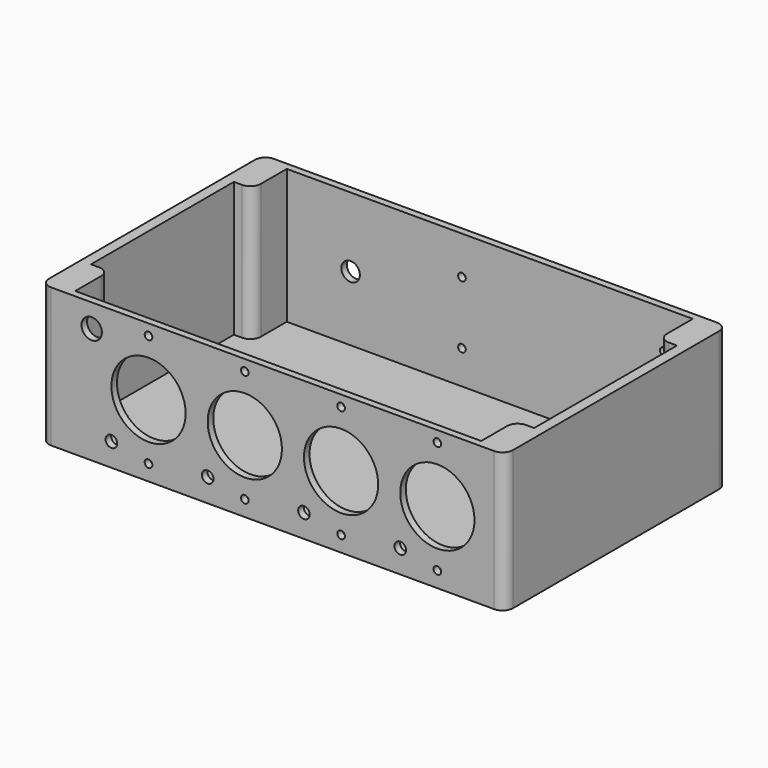
from build123d import *

# Parameters (mm, degrees)
SKETCH012_W     = 200
SKETCH012_H     = 120
PAD001_DEPTH    = 60
SKETCH011_R     = 16
POCKET004_DEPTH = 5
POCKET003_DEPTH = 58
SKETCH009_R     = 1.65
HOLE005_DEPTH   = 4
SKETCH010_R     = 4
POCKET005_DEPTH = 3
SKETCH015_R     = 4.4
HOLE006_DEPTH   = 22.356213
HOLE006_TIPS_R  = 4.4
SKETCH014_R     = 2.5
HOLE007_DEPTH   = 25
FILLET002_R     = 4.5
FILLET003_R     = 4.5
SKETCH016_R     = 1.65
HOLE004_DEPTH   = 9.00858
HOLE004_TIPS_R  = 1.65


with BuildPart() as part:
    # Sketch012 → Pad001 (new body)
    with BuildSketch(Plane.XY):
        Rectangle(SKETCH012_W, SKETCH012_H)
    extrude(amount=PAD001_DEPTH)

    # Sketch011 (on Face3 of Pad001) → Pocket004 (cut)
    with BuildSketch(Plane.XZ.offset(60)):
        with Locations((-53.5, 31)):
            Circle(SKETCH011_R)
        with Locations((-12, 31)):
            Circle(SKETCH011_R)
        with Locations((29.5, 31)):
            Circle(SKETCH011_R)
        with Locations((71, 31)):
            Circle(SKETCH011_R)
    extrude(amount=-POCKET004_DEPTH, mode=Mode.SUBTRACT)

    # Sketch013 (on Face6 of Pad001) → Pocket003 (cut)
    with BuildSketch(Plane.XY.offset(60)):
        Polygon((-87.5, 57), (87.5, 57), (87.5, 38.5), (95.5, 38.5), (95.5, -38.5), (87.5, -38.5), (87.5, -57), (-87.5, -57), (-87.5, -38.5), (-95.5, -38.5), (-95.5, 38.5), (-87.5, 38.5), align=None)
    extrude(amount=-POCKET003_DEPTH, mode=Mode.SUBTRACT)

    # Sketch009 (on Face1 of Pocket003) → Hole005 (cut)
    with BuildSketch(Plane(origin=(0, 60, 0), x_dir=(-1, 0, 0), z_dir=(0, 1, 0))):
        with Locations((-75, 43.5)):
            Circle(SKETCH009_R)
        with Locations((12, 43.5)):
            Circle(SKETCH009_R)
        with Locations((12, 16.5)):
            Circle(SKETCH009_R)
        with Locations((-75, 16.5)):
            Circle(SKETCH009_R)
    extrude(amount=-HOLE005_DEPTH, mode=Mode.SUBTRACT)

    # Sketch010 (on Face1 of Hole005) → Pocket005 (cut)
    with BuildSketch(Plane(origin=(0, 60, 0), x_dir=(-1, 0, 0), z_dir=(0, 1, 0))):
        with Locations((60, 30)):
            Circle(SKETCH010_R)
    extrude(amount=-POCKET005_DEPTH, mode=Mode.SUBTRACT)

    # Sketch015 (on Face11 of Pocket005) → Hole006 (cut)
    with BuildSketch(Plane.XZ.offset(60)):
        with Locations((-78, 50)):
            Circle(SKETCH015_R)
    extrude(amount=-HOLE006_DEPTH, mode=Mode.SUBTRACT)

    # Hole006 tips → Hole006 tip 1 section 0
    with BuildSketch(Plane.XZ.offset(37.643787), mode=Mode.PRIVATE) as hole006_tip_1_s0:
        with Locations((-78, 50)):
            Circle(HOLE006_TIPS_R)
    loft([hole006_tip_1_s0.sketch, Vertex(-78, -35, 50)], mode=Mode.SUBTRACT)

    # Sketch014 (on Face11 of Hole006) → Hole007 (cut)
    with BuildSketch(Plane.XZ.offset(60)):
        with Locations((-69.5, 10)):
            Circle(SKETCH014_R)
        with Locations((-28, 10)):
            Circle(SKETCH014_R)
        with Locations((13.5, 10)):
            Circle(SKETCH014_R)
        with Locations((55, 10)):
            Circle(SKETCH014_R)
    extrude(amount=-HOLE007_DEPTH, mode=Mode.SUBTRACT)

    # Fillet002
    fillet002_edges = [part.edges().sort_by_distance(p)[0] for p in [
        (-100, -60, 30),
        (-100, 60, 30),
        (100, -60, 30),
        (100, 60, 30),
    ]]
    fillet(fillet002_edges, radius=FILLET002_R)

    # Fillet003
    fillet003_edges = [part.edges().sort_by_distance(p)[0] for p in [
        (87.5, 38.5, 31),
        (-87.5, 38.5, 31),
        (-87.5, -38.5, 31),
        (87.5, -38.5, 31),
    ]]
    fillet(fillet003_edges, radius=FILLET003_R)

    # Sketch016 (on Face11 of Hole007) → Hole004 (cut)
    with BuildSketch(Plane.XZ.offset(60)):
        with Locations((-53.5, 55.25)):
            Circle(SKETCH016_R)
        with Locations((-12, 55.25)):
            Circle(SKETCH016_R)
        with Locations((29.5, 55.25)):
            Circle(SKETCH016_R)
        with Locations((71, 55.25)):
            Circle(SKETCH016_R)
        with Locations((71, 6.75)):
            Circle(SKETCH016_R)
        with Locations((29.5, 6.75)):
            Circle(SKETCH016_R)
        with Locations((-12, 6.75)):
            Circle(SKETCH016_R)
        with Locations((-53.5, 6.75)):
            Circle(SKETCH016_R)
    extrude(amount=-HOLE004_DEPTH, mode=Mode.SUBTRACT)

    # Hole004 tips → Hole004 tip 1 section 0
    with BuildSketch(Plane.XZ.offset(50.99142), mode=Mode.PRIVATE) as hole004_tip_1_s0:
        with Locations((-53.5, 55.25)):
            Circle(HOLE004_TIPS_R)
    loft([hole004_tip_1_s0.sketch, Vertex(-53.5, -50, 55.25)], mode=Mode.SUBTRACT)

    # Hole004 tips → Hole004 tip 2 section 0
    with BuildSketch(Plane.XZ.offset(50.99142), mode=Mode.PRIVATE) as hole004_tip_2_s0:
        with Locations((-12, 55.25)):
            Circle(HOLE004_TIPS_R)
    loft([hole004_tip_2_s0.sketch, Vertex(-12, -50, 55.25)], mode=Mode.SUBTRACT)

    # Hole004 tips → Hole004 tip 3 section 0
    with BuildSketch(Plane.XZ.offset(50.99142), mode=Mode.PRIVATE) as hole004_tip_3_s0:
        with Locations((29.5, 55.25)):
            Circle(HOLE004_TIPS_R)
    loft([hole004_tip_3_s0.sketch, Vertex(29.5, -50, 55.25)], mode=Mode.SUBTRACT)

    # Hole004 tips → Hole004 tip 4 section 0
    with BuildSketch(Plane.XZ.offset(50.99142), mode=Mode.PRIVATE) as hole004_tip_4_s0:
        with Locations((71, 55.25)):
            Circle(HOLE004_TIPS_R)
    loft([hole004_tip_4_s0.sketch, Vertex(71, -50, 55.25)], mode=Mode.SUBTRACT)

    # Hole004 tips → Hole004 tip 5 section 0
    with BuildSketch(Plane.XZ.offset(50.99142), mode=Mode.PRIVATE) as hole004_tip_5_s0:
        with Locations((71, 6.75)):
            Circle(HOLE004_TIPS_R)
    loft([hole004_tip_5_s0.sketch, Vertex(71, -50, 6.75)], mode=Mode.SUBTRACT)

    # Hole004 tips → Hole004 tip 6 section 0
    with BuildSketch(Plane.XZ.offset(50.99142), mode=Mode.PRIVATE) as hole004_tip_6_s0:
        with Locations((29.5, 6.75)):
            Circle(HOLE004_TIPS_R)
    loft([hole004_tip_6_s0.sketch, Vertex(29.5, -50, 6.75)], mode=Mode.SUBTRACT)

    # Hole004 tips → Hole004 tip 7 section 0
    with BuildSketch(Plane.XZ.offset(50.99142), mode=Mode.PRIVATE) as hole004_tip_7_s0:
        with Locations((-12, 6.75)):
            Circle(HOLE004_TIPS_R)
    loft([hole004_tip_7_s0.sketch, Vertex(-12, -50, 6.75)], mode=Mode.SUBTRACT)

    # Hole004 tips → Hole004 tip 8 section 0
    with BuildSketch(Plane.XZ.offset(50.99142), mode=Mode.PRIVATE) as hole004_tip_8_s0:
        with Locations((-53.5, 6.75)):
            Circle(HOLE004_TIPS_R)
    loft([hole004_tip_8_s0.sketch, Vertex(-53.5, -50, 6.75)], mode=Mode.SUBTRACT)


solid = part.part
